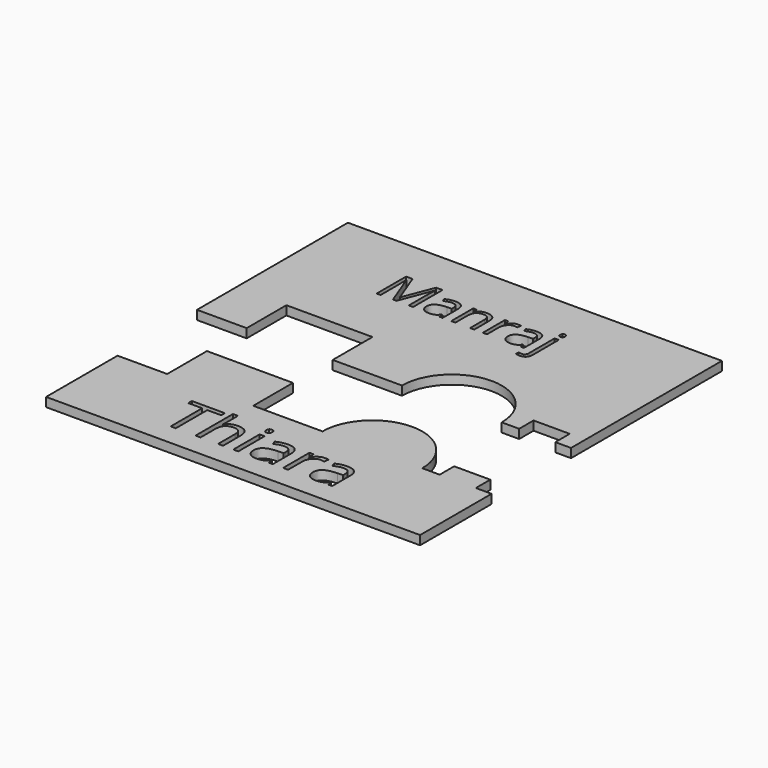
from build123d import *

# Parameters (mm, degrees)
F1_DEPTH = 3.175
F0_W     = 1.7532616936
F0_H     = 11.5701759165


with BuildPart() as f1:
    # F0 (on Top) → F1 (new body)
    with BuildSketch(Plane.XY):
        with BuildLine():
            Line((52.0995333791, 79.0911690899), (-79.317998216, 79.0911690899))
            Line((-79.317998216, 79.0911690899), (-79.317998216, 12.8038135924))
            Line((-79.317998216, 12.8038135924), (-61.868198216, 12.8038135924))
            Line((-61.868198216, 12.8038135924), (-61.868198216, 30.2478560813))
            Line((-61.868198216, 30.2478560813), (-31.631860882, 30.2478560813))
            Line((-31.631860882, 30.2478560813), (-31.631860882, 12.8038135924))
            Line((-31.631860882, 12.8038135924), (-7.2856105515, 12.8038135924))
            ThreePointArc((-7.2856105515, 12.8038135924), (10.2338362485, 30.3232603924), (27.7532830485, 12.8038135924))
            Line((27.7532830485, 12.8038135924), (33.8788953006, 12.8038135924))
            Line((33.8788953006, 12.8038135924), (33.8788953006, 19.1359775305))
            Line((33.8788953006, 19.1359775305), (46.5788953006, 19.1359775305))
            Line((46.5788953006, 19.1359775305), (46.5788953006, 12.8038135924))
            Line((46.5788953006, 12.8038135924), (52.0995333791, 12.8038135924))
            Line((52.0995333791, 12.8038135924), (52.0995333791, 79.0911690899))
        make_face()
        with BuildLine():
            Line((-39.9237794772, 51.1359061347), (-41.1344370886, 51.1359061347))
            Line((-41.1344370886, 51.1359061347), (-45.5188279706, 62.5918952137))
            Line((-45.5188279706, 62.5918952137), (-45.5895439526, 62.5918952137))
            add(Edge.make_bspline(
                [(-45.5895439526, 62.5918952137), (-45.4650838243, 61.2313197206), (-45.4650838243, 59.3559318788)],
                knots=[0, 0, 0, 1, 1, 1], degree=2))
            Line((-45.4650838243, 59.3559318788), (-45.4650838243, 51.1359061347))
            Line((-45.4650838243, 51.1359061347), (-46.8539457102, 51.1359061347))
            Line((-46.8539457102, 51.1359061347), (-46.8539457102, 64.0599589994))
            Line((-46.8539457102, 64.0599589994), (-44.5910342872, 64.0599589994))
            Line((-44.5910342872, 64.0599589994), (-40.4979932508, 53.3988175577))
            Line((-40.4979932508, 53.3988175577), (-40.4272772689, 53.3988175577))
            Line((-40.4272772689, 53.3988175577), (-36.3002925612, 64.0599589994))
            Line((-36.3002925612, 64.0599589994), (-34.0543529738, 64.0599589994))
            Line((-34.0543529738, 64.0599589994), (-34.0543529738, 51.1359061347))
            Line((-34.0543529738, 51.1359061347), (-35.5563604308, 51.1359061347))
            Line((-35.5563604308, 51.1359061347), (-35.5563604308, 59.4634201714))
            add(Edge.make_bspline(
                [(-35.5563604308, 59.4634201714), (-35.5563604308, 60.8947116464), (-35.4319003026, 62.574923378)],
                knots=[0, 0, 0, 1, 1, 1], degree=2))
            Line((-35.4319003026, 62.574923378), (-35.5026162846, 62.574923378))
            Line((-35.5026162846, 62.574923378), (-39.9237794772, 51.1359061347))
        make_face(mode=Mode.SUBTRACT)
        with BuildLine():
            Line((-23.6845613779, 51.1359061347), (-24.7735875002, 51.1359061347))
            Line((-24.7735875002, 51.1359061347), (-25.0649373459, 52.5162821028))
            Line((-25.0649373459, 52.5162821028), (-25.1356533279, 52.5162821028))
            add(Edge.make_bspline(
                [(-25.1356533279, 52.5162821028), (-25.8597849833, 51.605460255), (-26.5796736797, 51.2815810576)],
                knots=[0, 0, 0, 1, 1, 1], degree=2))
            add(Edge.make_bspline(
                [(-26.5796736797, 51.2815810576), (-27.2995623762, 50.9577018602), (-28.3801025806, 50.9577018602)],
                knots=[0, 0, 0, 1, 1, 1], degree=2))
            add(Edge.make_bspline(
                [(-28.3801025806, 50.9577018602), (-29.8198799735, 50.9577018602), (-30.6373567251, 51.7016339905)],
                knots=[0, 0, 0, 1, 1, 1], degree=2))
            add(Edge.make_bspline(
                [(-30.6373567251, 51.7016339905), (-31.4548334766, 52.4455661208), (-31.4548334766, 53.8146275317)],
                knots=[0, 0, 0, 1, 1, 1], degree=2))
            add(Edge.make_bspline(
                [(-31.4548334766, 53.8146275317), (-31.4548334766, 56.7479264638), (-26.7621209132, 56.8893584277)],
                knots=[0, 0, 0, 1, 1, 1], degree=2))
            Line((-26.7621209132, 56.8893584277), (-25.1186814922, 56.943102574))
            Line((-25.1186814922, 56.943102574), (-25.1186814922, 57.5456027404))
            add(Edge.make_bspline(
                [(-25.1186814922, 57.5456027404), (-25.1186814922, 58.6855443697), (-25.6080360875, 59.2286431113)],
                knots=[0, 0, 0, 1, 1, 1], degree=2))
            add(Edge.make_bspline(
                [(-25.6080360875, 59.2286431113), (-26.0973906827, 59.7717418528), (-27.1779308872, 59.7717418528)],
                knots=[0, 0, 0, 1, 1, 1], degree=2))
            add(Edge.make_bspline(
                [(-27.1779308872, 59.7717418528), (-28.3885884985, 59.7717418528), (-29.916053709, 59.0306383617)],
                knots=[0, 0, 0, 1, 1, 1], degree=2))
            Line((-29.916053709, 59.0306383617), (-30.3686359936, 60.1536081554))
            add(Edge.make_bspline(
                [(-30.3686359936, 60.1536081554), (-29.6529902561, 60.5411317366), (-28.8001555135, 60.7617656003)],
                knots=[0, 0, 0, 1, 1, 1], degree=2))
            add(Edge.make_bspline(
                [(-28.8001555135, 60.7617656003), (-27.947320771, 60.9823994641), (-27.0874144302, 60.9823994641)],
                knots=[0, 0, 0, 1, 1, 1], degree=2))
            add(Edge.make_bspline(
                [(-27.0874144302, 60.9823994641), (-25.3562871916, 60.9823994641), (-24.5204242848, 60.2144238999)],
                knots=[0, 0, 0, 1, 1, 1], degree=2))
            add(Edge.make_bspline(
                [(-24.5204242848, 60.2144238999), (-23.6845613779, 59.4464483357), (-23.6845613779, 57.7492647685)],
                knots=[0, 0, 0, 1, 1, 1], degree=2))
            Line((-23.6845613779, 57.7492647685), (-23.6845613779, 51.1359061347))
        make_face(mode=Mode.SUBTRACT)
        with BuildLine():
            Line((-12.5651803731, 51.1359061347), (-14.0332441588, 51.1359061347))
            Line((-14.0332441588, 51.1359061347), (-14.0332441588, 57.4041707765))
            add(Edge.make_bspline(
                [(-14.0332441588, 57.4041707765), (-14.0332441588, 58.586541995), (-14.5720999414, 59.170656006)],
                knots=[0, 0, 0, 1, 1, 1], degree=2))
            add(Edge.make_bspline(
                [(-14.5720999414, 59.170656006), (-15.110955724, 59.7547700171), (-16.2622119104, 59.7547700171)],
                knots=[0, 0, 0, 1, 1, 1], degree=2))
            add(Edge.make_bspline(
                [(-16.2622119104, 59.7547700171), (-17.7811912031, 59.7547700171), (-18.4883510228, 58.9330503066)],
                knots=[0, 0, 0, 1, 1, 1], degree=2))
            add(Edge.make_bspline(
                [(-18.4883510228, 58.9330503066), (-19.1955108425, 58.1113305961), (-19.1955108425, 56.2189709187)],
                knots=[0, 0, 0, 1, 1, 1], degree=2))
            Line((-19.1955108425, 56.2189709187), (-19.1955108425, 51.1359061347))
            Line((-19.1955108425, 51.1359061347), (-20.6635746282, 51.1359061347))
            Line((-20.6635746282, 51.1359061347), (-20.6635746282, 60.8239956645))
            Line((-20.6635746282, 60.8239956645), (-19.4698888526, 60.8239956645))
            Line((-19.4698888526, 60.8239956645), (-19.2322831531, 59.4973638427))
            Line((-19.2322831531, 59.4973638427), (-19.1615671712, 59.4973638427))
            add(Edge.make_bspline(
                [(-19.1615671712, 59.4973638427), (-18.7089848866, 60.2130095803), (-17.8957510939, 60.6076047597)],
                knots=[0, 0, 0, 1, 1, 1], degree=2))
            add(Edge.make_bspline(
                [(-17.8957510939, 60.6076047597), (-17.0825173013, 61.002199939), (-16.0840076359, 61.002199939)],
                knots=[0, 0, 0, 1, 1, 1], degree=2))
            add(Edge.make_bspline(
                [(-16.0840076359, 61.002199939), (-14.3330799223, 61.002199939), (-13.4491301477, 60.1578511143)],
                knots=[0, 0, 0, 1, 1, 1], degree=2))
            add(Edge.make_bspline(
                [(-13.4491301477, 60.1578511143), (-12.5651803731, 59.3135022896), (-12.5651803731, 57.4550862835)],
                knots=[0, 0, 0, 1, 1, 1], degree=2))
            Line((-12.5651803731, 57.4550862835), (-12.5651803731, 51.1359061347))
        make_face(mode=Mode.SUBTRACT)
        with BuildLine():
            add(Edge.make_bspline(
                [(-6.8032421623, 60.4888019099), (-6.0423381963, 61.002199939), (-5.1315163485, 61.002199939)],
                knots=[0, 0, 0, 1, 1, 1], degree=2))
            add(Edge.make_bspline(
                [(-5.1315163485, 61.002199939), (-4.486586593, 61.002199939), (-3.9746028835, 60.8947116464)],
                knots=[0, 0, 0, 1, 1, 1], degree=2))
            Line((-3.9746028835, 60.8947116464), (-4.1782649116, 59.5341361534))
            add(Edge.make_bspline(
                [(-4.1782649116, 59.5341361534), (-4.7779364387, 59.6670821995), (-5.2390046411, 59.6670821995)],
                knots=[0, 0, 0, 1, 1, 1], degree=2))
            add(Edge.make_bspline(
                [(-5.2390046411, 59.6670821995), (-6.4157185811, 59.6670821995), (-7.2501671683, 58.7124164429)],
                knots=[0, 0, 0, 1, 1, 1], degree=2))
            add(Edge.make_bspline(
                [(-7.2501671683, 58.7124164429), (-8.0846157556, 57.7577506863), (-8.0846157556, 56.3349451291)],
                knots=[0, 0, 0, 1, 1, 1], degree=2))
            Line((-8.0846157556, 56.3349451291), (-8.0846157556, 51.1359061347))
            Line((-8.0846157556, 51.1359061347), (-9.5526795412, 51.1359061347))
            Line((-9.5526795412, 51.1359061347), (-9.5526795412, 60.8239956645))
            Line((-9.5526795412, 60.8239956645), (-8.3420219299, 60.8239956645))
            Line((-8.3420219299, 60.8239956645), (-8.1723035732, 59.0306383617))
            Line((-8.1723035732, 59.0306383617), (-8.1015875912, 59.0306383617))
            add(Edge.make_bspline(
                [(-8.1015875912, 59.0306383617), (-7.5641461283, 59.9754038808), (-6.8032421623, 60.4888019099)],
                knots=[0, 0, 0, 1, 1, 1], degree=2))
        make_face(mode=Mode.SUBTRACT)
        with BuildLine():
            Line((4.8846953375, 51.1359061347), (3.7956692152, 51.1359061347))
            Line((3.7956692152, 51.1359061347), (3.5043193695, 52.5162821028))
            Line((3.5043193695, 52.5162821028), (3.4336033875, 52.5162821028))
            add(Edge.make_bspline(
                [(3.4336033875, 52.5162821028), (2.7094717322, 51.605460255), (1.9895830357, 51.2815810576)],
                knots=[0, 0, 0, 1, 1, 1], degree=2))
            add(Edge.make_bspline(
                [(1.9895830357, 51.2815810576), (1.2696943393, 50.9577018602), (0.1891541348, 50.9577018602)],
                knots=[0, 0, 0, 1, 1, 1], degree=2))
            add(Edge.make_bspline(
                [(0.1891541348, 50.9577018602), (-1.2506232581, 50.9577018602), (-2.0681000096, 51.7016339905)],
                knots=[0, 0, 0, 1, 1, 1], degree=2))
            add(Edge.make_bspline(
                [(-2.0681000096, 51.7016339905), (-2.8855767612, 52.4455661208), (-2.8855767612, 53.8146275317)],
                knots=[0, 0, 0, 1, 1, 1], degree=2))
            add(Edge.make_bspline(
                [(-2.8855767612, 53.8146275317), (-2.8855767612, 56.7479264638), (1.8071358023, 56.8893584277)],
                knots=[0, 0, 0, 1, 1, 1], degree=2))
            Line((1.8071358023, 56.8893584277), (3.4505752232, 56.943102574))
            Line((3.4505752232, 56.943102574), (3.4505752232, 57.5456027404))
            add(Edge.make_bspline(
                [(3.4505752232, 57.5456027404), (3.4505752232, 58.6855443697), (2.961220628, 59.2286431113)],
                knots=[0, 0, 0, 1, 1, 1], degree=2))
            add(Edge.make_bspline(
                [(2.961220628, 59.2286431113), (2.4718660328, 59.7717418528), (1.3913258283, 59.7717418528)],
                knots=[0, 0, 0, 1, 1, 1], degree=2))
            add(Edge.make_bspline(
                [(1.3913258283, 59.7717418528), (0.180668217, 59.7717418528), (-1.3467969936, 59.0306383617)],
                knots=[0, 0, 0, 1, 1, 1], degree=2))
            Line((-1.3467969936, 59.0306383617), (-1.7993792782, 60.1536081554))
            add(Edge.make_bspline(
                [(-1.7993792782, 60.1536081554), (-1.0837335406, 60.5411317366), (-0.2308987981, 60.7617656003)],
                knots=[0, 0, 0, 1, 1, 1], degree=2))
            add(Edge.make_bspline(
                [(-0.2308987981, 60.7617656003), (0.6219359445, 60.9823994641), (1.4818422852, 60.9823994641)],
                knots=[0, 0, 0, 1, 1, 1], degree=2))
            add(Edge.make_bspline(
                [(1.4818422852, 60.9823994641), (3.2129695238, 60.9823994641), (4.0488324307, 60.2144238999)],
                knots=[0, 0, 0, 1, 1, 1], degree=2))
            add(Edge.make_bspline(
                [(4.0488324307, 60.2144238999), (4.8846953375, 59.4464483357), (4.8846953375, 57.7492647685)],
                knots=[0, 0, 0, 1, 1, 1], degree=2))
            Line((4.8846953375, 57.7492647685), (4.8846953375, 51.1359061347))
        make_face(mode=Mode.SUBTRACT)
        with BuildLine():
            add(Edge.make_bspline(
                [(9.3737458729, 49.6508705134), (9.3737458729, 46.785458924), (6.7289681473, 46.785458924)],
                knots=[0, 0, 0, 1, 1, 1], degree=2))
            add(Edge.make_bspline(
                [(6.7289681473, 46.785458924), (5.8888622815, 46.785458924), (5.3683926542, 47.008921427)],
                knots=[0, 0, 0, 1, 1, 1], degree=2))
            Line((5.3683926542, 47.008921427), (5.3683926542, 48.1997785634))
            add(Edge.make_bspline(
                [(5.3683926542, 48.1997785634), (5.9793787384, 48.0244029281), (6.5705643477, 48.0244029281)],
                knots=[0, 0, 0, 1, 1, 1], degree=2))
            add(Edge.make_bspline(
                [(6.5705643477, 48.0244029281), (7.2607523317, 48.0244029281), (7.5832172095, 48.4006119522)],
                knots=[0, 0, 0, 1, 1, 1], degree=2))
            add(Edge.make_bspline(
                [(7.5832172095, 48.4006119522), (7.9056820873, 48.7768209762), (7.9056820873, 49.5433822208)],
                knots=[0, 0, 0, 1, 1, 1], degree=2))
            Line((7.9056820873, 49.5433822208), (7.9056820873, 60.8239956645))
            Line((7.9056820873, 60.8239956645), (9.3737458729, 60.8239956645))
            Line((9.3737458729, 60.8239956645), (9.3737458729, 49.6508705134))
        make_face(mode=Mode.SUBTRACT)
        with BuildLine():
            add(Edge.make_bspline(
                [(8.0287278959, 62.7106980634), (7.781221959, 62.9539610414), (7.781221959, 63.4489729152)],
                knots=[0, 0, 0, 1, 1, 1], degree=2))
            add(Edge.make_bspline(
                [(7.781221959, 63.4489729152), (7.781221959, 63.9524707068), (8.0287278959, 64.1872477669)],
                knots=[0, 0, 0, 1, 1, 1], degree=2))
            add(Edge.make_bspline(
                [(8.0287278959, 64.1872477669), (8.2762338328, 64.4220248271), (8.6496142176, 64.4220248271)],
                knots=[0, 0, 0, 1, 1, 1], degree=2))
            add(Edge.make_bspline(
                [(8.6496142176, 64.4220248271), (9.0031941274, 64.4220248271), (9.2591859821, 64.183004808)],
                knots=[0, 0, 0, 1, 1, 1], degree=2))
            add(Edge.make_bspline(
                [(9.2591859821, 64.183004808), (9.5151778369, 63.9439847889), (9.5151778369, 63.4489729152)],
                knots=[0, 0, 0, 1, 1, 1], degree=2))
            add(Edge.make_bspline(
                [(9.5151778369, 63.4489729152), (9.5151778369, 62.9539610414), (9.2591859821, 62.7106980634)],
                knots=[0, 0, 0, 1, 1, 1], degree=2))
            add(Edge.make_bspline(
                [(9.2591859821, 62.7106980634), (9.0031941274, 62.4674350854), (8.6496142176, 62.4674350854)],
                knots=[0, 0, 0, 1, 1, 1], degree=2))
            add(Edge.make_bspline(
                [(8.6496142176, 62.4674350854), (8.2762338328, 62.4674350854), (8.0287278959, 62.7106980634)],
                knots=[0, 0, 0, 1, 1, 1], degree=2))
        make_face(mode=Mode.SUBTRACT)
    extrude(amount=F1_DEPTH)


with BuildPart() as f1b:
    # F0 (on Top) → F1, piece 2 (new body)
    with BuildSketch(Plane.XY):
        with BuildLine():
            Line((-79.317998216, -22.0957864076), (-79.317998216, -53.4835419051))
            Line((-79.317998216, -53.4835419051), (52.0995333791, -53.4835419051))
            Line((52.0995333791, -53.4835419051), (52.0995333791, -22.0957864076))
            Line((52.0995333791, -22.0957864076), (46.5788953006, -22.0957864076))
            Line((46.5788953006, -22.0957864076), (46.5788953006, -15.7457864076))
            Line((46.5788953006, -15.7457864076), (33.8788953006, -15.7457864076))
            Line((33.8788953006, -15.7457864076), (33.8788953006, -22.0957864076))
            Line((33.8788953006, -22.0957864076), (27.7532830485, -22.0957864076))
            ThreePointArc((27.7532830485, -22.0957864076), (10.2338362485, -4.5763396076), (-7.2856105515, -22.0957864076))
            Line((-7.2856105515, -22.0957864076), (-31.631860882, -22.0957864076))
            Line((-31.631860882, -22.0957864076), (-31.631860882, -4.6459864076))
            Line((-31.631860882, -4.6459864076), (-61.868198216, -4.6459864076))
            Line((-61.868198216, -4.6459864076), (-61.868198216, -22.0957864076))
            Line((-61.868198216, -22.0957864076), (-79.317998216, -22.0957864076))
        make_face()
        Polygon((-39.8788652237, -31.9838712838), (-39.8788652237, -45.8241663873), (-41.67266476, -45.8241663873), (-41.67266476, -31.9838712838), (-46.5608529501, -31.9838712838), (-46.5608529501, -30.3893828071), (-34.9906770336, -30.3893828071), (-34.9906770336, -31.9838712838), align=None, mode=Mode.SUBTRACT)
        with BuildLine():
            Line((-23.2583497467, -45.8241663873), (-25.0116114403, -45.8241663873))
            Line((-25.0116114403, -45.8241663873), (-25.0116114403, -38.3381781155))
            add(Edge.make_bspline(
                [(-25.0116114403, -38.3381781155), (-25.0116114403, -36.9261099307), (-25.655149692, -36.2285212222)],
                knots=[0, 0, 0, 1, 1, 1], degree=2))
            add(Edge.make_bspline(
                [(-25.655149692, -36.2285212222), (-26.2986879437, -35.5309325136), (-27.6735964394, -35.5309325136)],
                knots=[0, 0, 0, 1, 1, 1], degree=2))
            add(Edge.make_bspline(
                [(-27.6735964394, -35.5309325136), (-29.4977993577, -35.5309325136), (-30.3372705154, -36.524109658)],
                knots=[0, 0, 0, 1, 1, 1], degree=2))
            add(Edge.make_bspline(
                [(-30.3372705154, -36.524109658), (-31.1767416731, -37.5172868023), (-31.1767416731, -39.7738933752)],
                knots=[0, 0, 0, 1, 1, 1], degree=2))
            Line((-31.1767416731, -39.7738933752), (-31.1767416731, -45.8241663873))
            Line((-31.1767416731, -45.8241663873), (-32.9300033667, -45.8241663873))
            Line((-32.9300033667, -45.8241663873), (-32.9300033667, -29.3962056627))
            Line((-32.9300033667, -29.3962056627), (-31.1767416731, -29.3962056627))
            Line((-31.1767416731, -29.3962056627), (-31.1767416731, -34.3688476916))
            add(Edge.make_bspline(
                [(-31.1767416731, -34.3688476916), (-31.1767416731, -35.2674365365), (-31.2611955119, -35.8586134082)],
                knots=[0, 0, 0, 1, 1, 1], degree=2))
            Line((-31.2611955119, -35.8586134082), (-31.1564727518, -35.8586134082))
            add(Edge.make_bspline(
                [(-31.1564727518, -35.8586134082), (-30.6396152583, -35.0242094808), (-29.683597803, -34.5445116764)],
                knots=[0, 0, 0, 1, 1, 1], degree=2))
            add(Edge.make_bspline(
                [(-29.683597803, -34.5445116764), (-28.7275803478, -34.0648138719), (-27.5046887618, -34.0648138719)],
                knots=[0, 0, 0, 1, 1, 1], degree=2))
            add(Edge.make_bspline(
                [(-27.5046887618, -34.0648138719), (-25.383208331, -34.0648138719), (-24.3207790388, -35.0731927073)],
                knots=[0, 0, 0, 1, 1, 1], degree=2))
            add(Edge.make_bspline(
                [(-24.3207790388, -35.0731927073), (-23.2583497467, -36.0815715426), (-23.2583497467, -38.2773713516)],
                knots=[0, 0, 0, 1, 1, 1], degree=2))
            Line((-23.2583497467, -38.2773713516), (-23.2583497467, -45.8241663873))
        make_face(mode=Mode.SUBTRACT)
        with Locations((-18.7839853667, -40.0390784291)):
            Rectangle(F0_W, F0_H, mode=Mode.SUBTRACT)
        with BuildLine():
            add(Edge.make_bspline(
                [(-19.513666534, -32.0007620515), (-19.8092549698, -31.710240846), (-19.8092549698, -31.1190639744)],
                knots=[0, 0, 0, 1, 1, 1], degree=2))
            add(Edge.make_bspline(
                [(-19.8092549698, -31.1190639744), (-19.8092549698, -30.5177526421), (-19.513666534, -30.2373658972)],
                knots=[0, 0, 0, 1, 1, 1], degree=2))
            add(Edge.make_bspline(
                [(-19.513666534, -30.2373658972), (-19.2180780982, -29.9569791524), (-18.7721618293, -29.9569791524)],
                knots=[0, 0, 0, 1, 1, 1], degree=2))
            add(Edge.make_bspline(
                [(-18.7721618293, -29.9569791524), (-18.3498926352, -29.9569791524), (-18.0441697388, -30.2424331276)],
                knots=[0, 0, 0, 1, 1, 1], degree=2))
            add(Edge.make_bspline(
                [(-18.0441697388, -30.2424331276), (-17.7384468423, -30.5278871027), (-17.7384468423, -31.1190639744)],
                knots=[0, 0, 0, 1, 1, 1], degree=2))
            add(Edge.make_bspline(
                [(-17.7384468423, -31.1190639744), (-17.7384468423, -31.710240846), (-18.0441697388, -32.0007620515)],
                knots=[0, 0, 0, 1, 1, 1], degree=2))
            add(Edge.make_bspline(
                [(-18.0441697388, -32.0007620515), (-18.3498926352, -32.291283257), (-18.7721618293, -32.291283257)],
                knots=[0, 0, 0, 1, 1, 1], degree=2))
            add(Edge.make_bspline(
                [(-18.7721618293, -32.291283257), (-19.2180780982, -32.291283257), (-19.513666534, -32.0007620515)],
                knots=[0, 0, 0, 1, 1, 1], degree=2))
        make_face(mode=Mode.SUBTRACT)
        with BuildLine():
            Line((-5.7764051138, -45.8241663873), (-7.0769942314, -45.8241663873))
            Line((-7.0769942314, -45.8241663873), (-7.4249440473, -44.1756274538))
            Line((-7.4249440473, -44.1756274538), (-7.5093978861, -44.1756274538))
            add(Edge.make_bspline(
                [(-7.5093978861, -44.1756274538), (-8.3742051954, -45.2633928976), (-9.2339452745, -45.6501914794)],
                knots=[0, 0, 0, 1, 1, 1], degree=2))
            add(Edge.make_bspline(
                [(-9.2339452745, -45.6501914794), (-10.0936853535, -46.0369900611), (-11.3841400105, -46.0369900611)],
                knots=[0, 0, 0, 1, 1, 1], degree=2))
            add(Edge.make_bspline(
                [(-11.3841400105, -46.0369900611), (-13.1036201686, -46.0369900611), (-14.0799065452, -45.1485356769)],
                knots=[0, 0, 0, 1, 1, 1], degree=2))
            add(Edge.make_bspline(
                [(-14.0799065452, -45.1485356769), (-15.0561929218, -44.2600812926), (-15.0561929218, -42.6250549733)],
                knots=[0, 0, 0, 1, 1, 1], degree=2))
            add(Edge.make_bspline(
                [(-15.0561929218, -42.6250549733), (-15.0561929218, -39.1219097397), (-9.4518361786, -38.953002062)],
                knots=[0, 0, 0, 1, 1, 1], degree=2))
            Line((-9.4518361786, -38.953002062), (-7.4891289648, -38.8888171446))
            Line((-7.4891289648, -38.8888171446), (-7.4891289648, -38.1692704379))
            add(Edge.make_bspline(
                [(-7.4891289648, -38.1692704379), (-7.4891289648, -36.8078745564), (-8.0735495293, -36.1592690743)],
                knots=[0, 0, 0, 1, 1, 1], degree=2))
            add(Edge.make_bspline(
                [(-8.0735495293, -36.1592690743), (-8.6579700938, -35.5106635923), (-9.9484247508, -35.5106635923)],
                knots=[0, 0, 0, 1, 1, 1], degree=2))
            add(Edge.make_bspline(
                [(-9.9484247508, -35.5106635923), (-11.3942744712, -35.5106635923), (-13.2184773894, -36.395739823)],
                knots=[0, 0, 0, 1, 1, 1], degree=2))
            Line((-13.2184773894, -36.395739823), (-13.7589819577, -35.0546128627))
            add(Edge.make_bspline(
                [(-13.7589819577, -35.0546128627), (-12.904309109, -34.5918058261), (-11.885795813, -34.328309849)],
                knots=[0, 0, 0, 1, 1, 1], degree=2))
            add(Edge.make_bspline(
                [(-11.885795813, -34.328309849), (-10.867282517, -34.0648138719), (-9.8403238371, -34.0648138719)],
                knots=[0, 0, 0, 1, 1, 1], degree=2))
            add(Edge.make_bspline(
                [(-9.8403238371, -34.0648138719), (-7.7728938631, -34.0648138719), (-6.7746494885, -34.9819825614)],
                knots=[0, 0, 0, 1, 1, 1], degree=2))
            add(Edge.make_bspline(
                [(-6.7746494885, -34.9819825614), (-5.7764051138, -35.8991512508), (-5.7764051138, -37.9260433822)],
                knots=[0, 0, 0, 1, 1, 1], degree=2))
            Line((-5.7764051138, -37.9260433822), (-5.7764051138, -45.8241663873))
        make_face(mode=Mode.SUBTRACT)
        with BuildLine():
            add(Edge.make_bspline(
                [(1.1150281328, -34.6543016668), (2.0237514384, -34.0411667971), (3.1115168822, -34.0411667971)],
                knots=[0, 0, 0, 1, 1, 1], degree=2))
            add(Edge.make_bspline(
                [(3.1115168822, -34.0411667971), (3.8817358921, -34.0411667971), (4.4931816851, -34.1695366321)],
                knots=[0, 0, 0, 1, 1, 1], degree=2))
            Line((4.4931816851, -34.1695366321), (4.2499546293, -35.7944284907))
            add(Edge.make_bspline(
                [(4.2499546293, -35.7944284907), (3.5337860762, -35.6356552737), (2.9831470472, -35.6356552737)],
                knots=[0, 0, 0, 1, 1, 1], degree=2))
            add(Edge.make_bspline(
                [(2.9831470472, -35.6356552737), (1.5778351695, -35.6356552737), (0.5812798716, -36.7757820976)],
                knots=[0, 0, 0, 1, 1, 1], degree=2))
            add(Edge.make_bspline(
                [(0.5812798716, -36.7757820976), (-0.4152754263, -37.9159089215), (-0.4152754263, -39.6151201583)],
                knots=[0, 0, 0, 1, 1, 1], degree=2))
            Line((-0.4152754263, -39.6151201583), (-0.4152754263, -45.8241663873))
            Line((-0.4152754263, -45.8241663873), (-2.16853712, -45.8241663873))
            Line((-2.16853712, -45.8241663873), (-2.16853712, -34.2539904709))
            Line((-2.16853712, -34.2539904709), (-0.7226873996, -34.2539904709))
            Line((-0.7226873996, -34.2539904709), (-0.5199981865, -36.395739823))
            Line((-0.5199981865, -36.395739823), (-0.4355443477, -36.395739823))
            add(Edge.make_bspline(
                [(-0.4355443477, -36.395739823), (0.2063048273, -35.2674365365), (1.1150281328, -34.6543016668)],
                knots=[0, 0, 0, 1, 1, 1], degree=2))
        make_face(mode=Mode.SUBTRACT)
        with BuildLine():
            Line((15.0735586107, -45.8241663873), (13.7729694931, -45.8241663873))
            Line((13.7729694931, -45.8241663873), (13.4250196772, -44.1756274538))
            Line((13.4250196772, -44.1756274538), (13.3405658384, -44.1756274538))
            add(Edge.make_bspline(
                [(13.3405658384, -44.1756274538), (12.475758529, -45.2633928976), (11.61601845, -45.6501914794)],
                knots=[0, 0, 0, 1, 1, 1], degree=2))
            add(Edge.make_bspline(
                [(11.61601845, -45.6501914794), (10.7562783709, -46.0369900611), (9.465823714, -46.0369900611)],
                knots=[0, 0, 0, 1, 1, 1], degree=2))
            add(Edge.make_bspline(
                [(9.465823714, -46.0369900611), (7.7463435559, -46.0369900611), (6.7700571793, -45.1485356769)],
                knots=[0, 0, 0, 1, 1, 1], degree=2))
            add(Edge.make_bspline(
                [(6.7700571793, -45.1485356769), (5.7937708027, -44.2600812926), (5.7937708027, -42.6250549733)],
                knots=[0, 0, 0, 1, 1, 1], degree=2))
            add(Edge.make_bspline(
                [(5.7937708027, -42.6250549733), (5.7937708027, -39.1219097397), (11.3981275459, -38.953002062)],
                knots=[0, 0, 0, 1, 1, 1], degree=2))
            Line((11.3981275459, -38.953002062), (13.3608347597, -38.8888171446))
            Line((13.3608347597, -38.8888171446), (13.3608347597, -38.1692704379))
            add(Edge.make_bspline(
                [(13.3608347597, -38.1692704379), (13.3608347597, -36.8078745564), (12.7764141952, -36.1592690743)],
                knots=[0, 0, 0, 1, 1, 1], degree=2))
            add(Edge.make_bspline(
                [(12.7764141952, -36.1592690743), (12.1919936306, -35.5106635923), (10.9015389737, -35.5106635923)],
                knots=[0, 0, 0, 1, 1, 1], degree=2))
            add(Edge.make_bspline(
                [(10.9015389737, -35.5106635923), (9.4556892533, -35.5106635923), (7.6314863351, -36.395739823)],
                knots=[0, 0, 0, 1, 1, 1], degree=2))
            Line((7.6314863351, -36.395739823), (7.0909817667, -35.0546128627))
            add(Edge.make_bspline(
                [(7.0909817667, -35.0546128627), (7.9456546155, -34.5918058261), (8.9641679115, -34.328309849)],
                knots=[0, 0, 0, 1, 1, 1], degree=2))
            add(Edge.make_bspline(
                [(8.9641679115, -34.328309849), (9.9826812075, -34.0648138719), (11.0096398874, -34.0648138719)],
                knots=[0, 0, 0, 1, 1, 1], degree=2))
            add(Edge.make_bspline(
                [(11.0096398874, -34.0648138719), (13.0770698613, -34.0648138719), (14.075314236, -34.9819825614)],
                knots=[0, 0, 0, 1, 1, 1], degree=2))
            add(Edge.make_bspline(
                [(14.075314236, -34.9819825614), (15.0735586107, -35.8991512508), (15.0735586107, -37.9260433822)],
                knots=[0, 0, 0, 1, 1, 1], degree=2))
            Line((15.0735586107, -37.9260433822), (15.0735586107, -45.8241663873))
        make_face(mode=Mode.SUBTRACT)
    extrude(amount=F1_DEPTH)


solid = Compound([f1.part, f1b.part])
